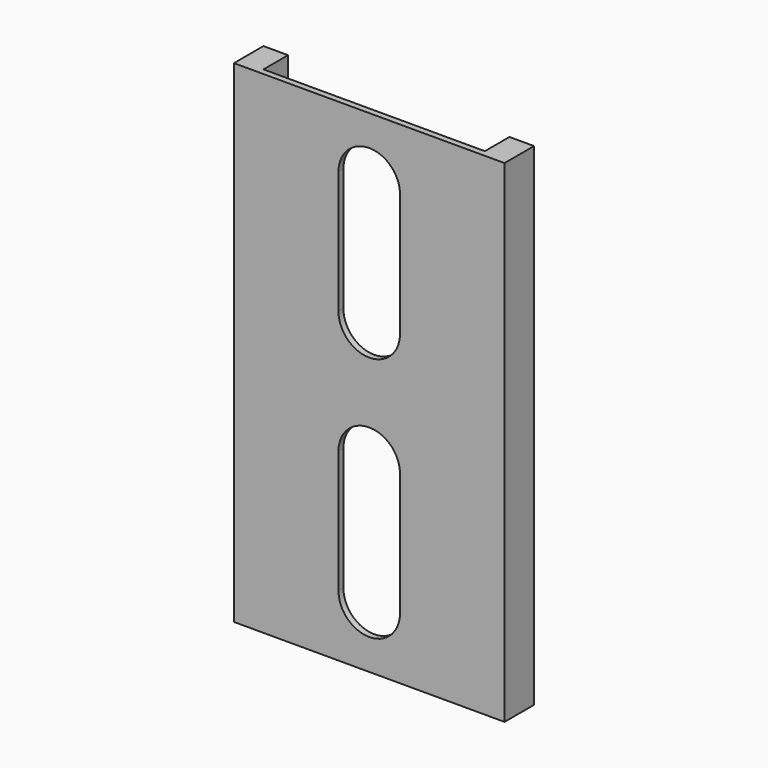
from build123d import *

# Parameters (mm, degrees)
F1_DEPTH = 400
F3_DEPTH = 25


with BuildPart() as f1:
    # F0 (on Top) → F1 (new body)
    with BuildSketch(Plane.XY):
        Polygon((-110, 15), (-110, -15), (110, -15), (110, 15), (90, 15), (90, -10), (-90, -10), (-90, 15), align=None)
    extrude(amount=F1_DEPTH)

    # F2 (on Front) → F3 (cut)
    with BuildSketch(Plane.XZ):
        with BuildLine():
            Line((-25, 350), (-25, 250))
            ThreePointArc((-25, 250), (0, 225), (25, 250))
            Line((25, 250), (25, 350))
            ThreePointArc((25, 350), (0, 375), (-25, 350))
        make_face()
        with BuildLine():
            Line((25, 50), (25, 150))
            ThreePointArc((25, 150), (0, 175), (-25, 150))
            Line((-25, 150), (-25, 50))
            ThreePointArc((-25, 50), (0, 25), (25, 50))
        make_face()
    extrude(amount=F3_DEPTH, mode=Mode.SUBTRACT)


solid = f1.part
